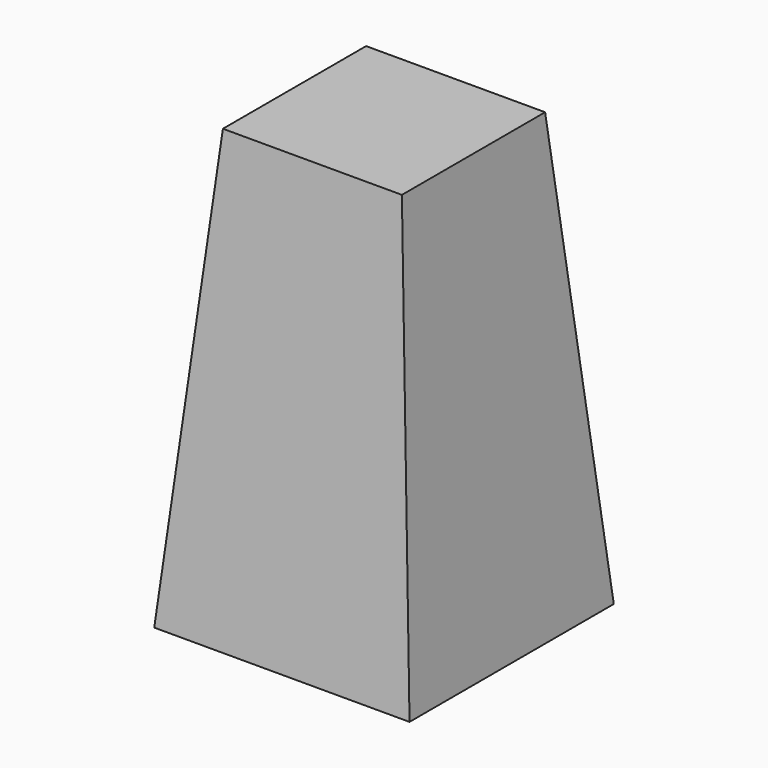
from build123d import *

# Parameters (mm, degrees)
F0_W      = 100
F0_H      = 100
F1_DEPTH  = 74.8
F1_TAPER  = 5
F1_FACE_W = 86.9116959365
F1_FACE_H = 86.9116959365
F2_DEPTH  = 96
F2_TAPER  = 5


with BuildPart() as f1:
    # F0 (on Top) → F1 (new body)
    with BuildSketch(Plane.XY):
        Rectangle(F0_W, F0_H)
    extrude(amount=F1_DEPTH, taper=F1_TAPER)

    # F1_face (on face) → F2 (join)
    with BuildSketch(Plane.XY.offset(74.8)):
        Rectangle(F1_FACE_W, F1_FACE_H)
    extrude(amount=F2_DEPTH, taper=F2_TAPER)


solid = f1.part
